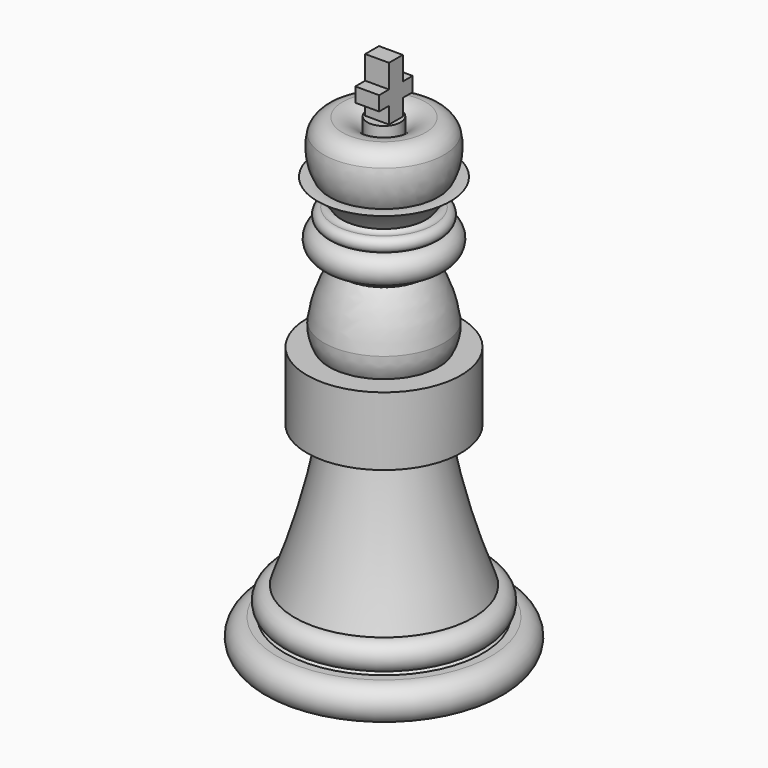
from build123d import *

# Parameters (mm, degrees)
F10_W     = 2.5973028746
F10_H     = 3.0238824309
F10_W_2   = 3.612668298
F10_H_2   = 4.9342662549
F11_DEPTH = 5


with BuildPart() as f1:
    # F0 (on Front) → F1 (revolve)
    with BuildSketch(Plane.XZ):
        with BuildLine():
            Line((0, 0), (0, 45.9391020568))
            ThreePointArc((0, 45.9391020568), (-5.3818502071, 41.5994474406), (-1.5052335328, 35.8750472973))
            ThreePointArc((-1.5052335328, 35.8750472973), (-3.4556970702, 23.0107943133), (-10.1434485987, 11.8498224765))
            ThreePointArc((-10.1434485987, 11.8498224765), (-12.1555629621, 9.3877331819), (-10.1434485987, 6.9256438874))
            ThreePointArc((-10.1434485987, 6.9256438874), (-14.1270766639, 3.4628219437), (-10.1434485987, 0))
            Line((-10.1434485987, 0), (0, 0))
        make_face()
    revolve(axis=Axis((0, 0, 22.9695510284), (0, 0, 1)))


with BuildPart() as f3:
    # F2 (on Front) → F3 (revolve)
    with BuildSketch(Plane.XZ):
        with BuildLine():
            Line((-18.1297343224, 0), (0, 0))
            Line((0, 0), (0, 94.9347391725))
            ThreePointArc((0, 94.9347391725), (-2.5784077551, 90.1386189063), (-2.3931667674, 84.6965014935))
            Line((-2.3931667674, 84.6965014935), (-4.8579303548, 84.6965014935))
            ThreePointArc((-4.8579303548, 84.6965014935), (-8.8568529845, 87.9476361027), (-13.9585947618, 88.6780396104))
            ThreePointArc((-13.9585947618, 88.6780396104), (-8.4721858821, 83.0104052777), (-6.3747093081, 75.4062384367))
            ThreePointArc((-6.3747093081, 75.4062384367), (-4.2825475071, 72.7518759668), (-6.3747093081, 70.0975134969))
            ThreePointArc((-6.3747093081, 70.0975134969), (-10.5269463728, 67.3483535647), (-6.3747093081, 64.5991936326))
            ThreePointArc((-6.3747093081, 64.5991936326), (-8.3557345542, 39.2310884298), (-14.527387917, 14.5455477759))
            ThreePointArc((-14.527387917, 14.5455477759), (-17.6557409577, 11.4171947353), (-14.527387917, 8.2888416946))
            Line((-14.527387917, 8.2888416946), (-18.1297343224, 8.2888416946))
            ThreePointArc((-18.1297343224, 8.2888416946), (-22.2741551697, 4.1444208473), (-18.1297343224, 0))
        make_face()
    revolve(axis=Axis((0, 0, 47.4673695862), (0, 0, -1)))


with BuildPart() as f5:
    # F4 (on Front) → F5 (revolve)
    with BuildSketch(Plane.XZ):
        with BuildLine():
            Line((-18.2871129364, 0), (0, 0))
            Line((0, 0), (0, 51.0706291124))
            Line((0, 51.0706291124), (-9.3179634934, 51.0706291124))
            Line((-9.3179634934, 51.0706291124), (-9.6192322671, 57.2178810835))
            Line((-9.6192322671, 57.2178810835), (-16.1729957908, 57.2178810835))
            Line((-16.1729957908, 57.2178810835), (-16.1729957908, 42.8418889642))
            Line((-16.1729957908, 42.8418889642), (-9.6192322671, 42.8418889642))
            ThreePointArc((-9.6192322671, 42.8418889642), (-9.1071041764, 26.7264448059), (-15.1159372181, 11.7643680423))
            ThreePointArc((-15.1159372181, 11.7643680423), (-17.9699955042, 8.9103097562), (-15.1159372181, 6.05625147))
            Line((-15.1159372181, 6.05625147), (-18.2871129364, 6.05625147))
            ThreePointArc((-18.2871129364, 6.05625147), (-21.3152386714, 3.028125735), (-18.2871129364, 0))
        make_face()
    revolve(axis=Axis((0, 0, 25.5353145562), (0, 0, -1)))


with BuildPart() as f7:
    # F6 (on Right) → F7 (revolve)
    with BuildSketch(Plane.YZ):
        with BuildLine():
            Line((-18.0775392801, 0), (0, 0))
            Line((0, 0), (0, 73.193103075))
            Line((0, 73.193103075), (0, 83.461239934))
            ThreePointArc((0, 83.461239934), (-2.169993209, 82.3430796068), (-1.8250824651, 79.926431179))
            ThreePointArc((-1.8250824651, 79.926431179), (-9.1226003003, 72.1284512395), (-12.600293383, 62.0305351913))
            ThreePointArc((-12.600293383, 62.0305351913), (-11.2618162191, 56.8381940076), (-7.1050517537, 53.4509772643))
            ThreePointArc((-7.1050517537, 53.4509772643), (-7.5168372062, 31.776908223), (-15.4215125367, 11.5914940834))
            ThreePointArc((-15.4215125367, 11.5914940834), (-18.3286466636, 8.6843599565), (-15.4215125367, 5.7772258297))
            Line((-15.4215125367, 5.7772258297), (-18.0775392801, 5.7772258297))
            ThreePointArc((-18.0775392801, 5.7772258297), (-20.9661521949, 2.8886129148), (-18.0775392801, 0))
        make_face()
    revolve(axis=Axis((0, 0, 36.5965515375), (0, 0, -1)))


with BuildPart() as f9:
    # F8 (on Right) → F9 (revolve)
    with BuildSketch(Plane.YZ):
        with BuildLine():
            Line((-22.490862757, 0), (0, 0))
            Line((0, 0), (0, 99.8936295509))
            Line((0, 99.8936295509), (-3.4948771354, 99.8936295509))
            Line((-3.4948771354, 99.8936295509), (-3.4948771354, 96.831202507))
            ThreePointArc((-3.4948771354, 96.831202507), (-5.7430654927, 98.9263242281), (-8.7197334506, 99.6900871396))
            ThreePointArc((-8.7197334506, 99.6900871396), (-11.1260267423, 98.8862358106), (-12.6137305051, 96.831202507))
            ThreePointArc((-12.6137305051, 96.831202507), (-12.2987177674, 90.5577174458), (-8.7197334506, 85.3956714272))
            ThreePointArc((-8.7197334506, 85.3956714272), (-8.8083070293, 83.7080899558), (-10.3956311941, 83.1282809377))
            ThreePointArc((-10.3956311941, 83.1282809377), (-11.8250735104, 81.6988386214), (-10.3956311941, 80.2693963051))
            ThreePointArc((-10.3956311941, 80.2693963051), (-13.3530981839, 77.3119293153), (-10.3956311941, 74.3544623256))
            Line((-10.3956311941, 74.3544623256), (-8.7197334506, 74.3544623256))
            ThreePointArc((-8.7197334506, 74.3544623256), (-10.6475584107, 43.2823591325), (-18.7447397038, 13.2219572552))
            ThreePointArc((-18.7447397038, 13.2219572552), (-21.7022052966, 10.2644916624), (-18.7447397038, 7.3070260696))
            Line((-18.7447397038, 7.3070260696), (-22.490862757, 7.3070260696))
            ThreePointArc((-22.490862757, 7.3070260696), (-26.1443757918, 3.6535130348), (-22.490862757, 0))
        make_face()
    revolve(axis=Axis((0, 0, 49.9823056161), (0, 0, 1)))


with BuildPart() as f11:
    # F10 (on Right) → F11 (new body)
    with BuildSketch(Plane.YZ):
        with Locations((-3.1049855863, 104.8662698593)):
            Rectangle(F10_W, F10_H)
        with Locations((0, 104.8662698593)):
            Rectangle(F10_W_2, F10_H)
        with Locations((0, 100.8871955164)):
            Rectangle(F10_W_2, F10_H_2)
        with Locations((3.1049855863, 104.8662698593)):
            Rectangle(F10_W, F10_H)
        with Locations((0, 108.8453442022)):
            Rectangle(F10_W_2, F10_H_2)
    extrude(amount=F11_DEPTH)


with BuildPart() as f11_1:
    # F12: moved
    add(f11.part.moved(Location((-2.5, 0, 0))))


solid = Compound([f1.part, f3.part, f5.part, f7.part, f9.part, f11_1.part])
